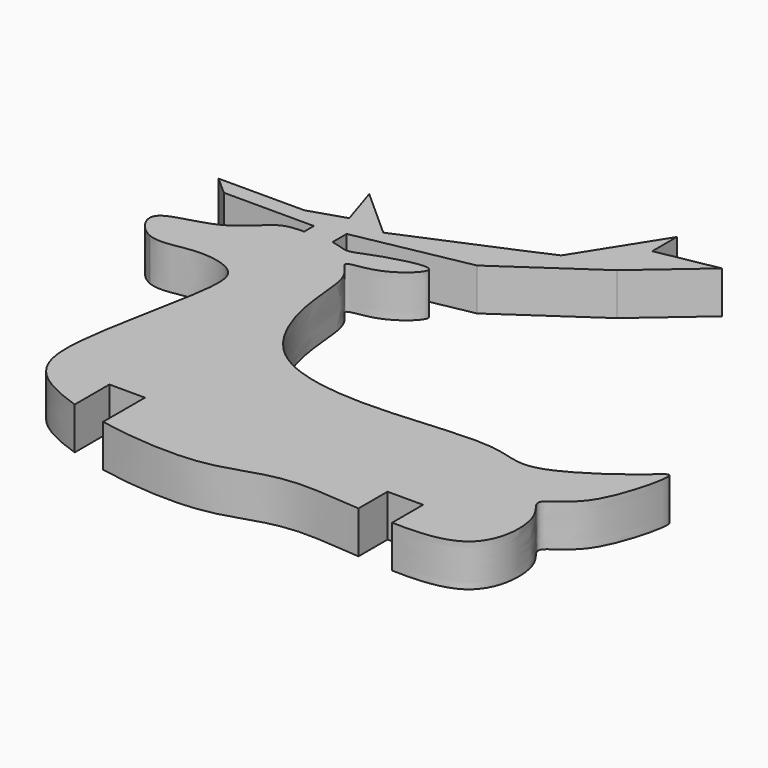
from build123d import *

# Parameters (mm, degrees)
F1_DEPTH = 5.08


with BuildPart() as f1:
    # F0 (on Top) → F1 (new body)
    with BuildSketch(Plane.XY):
        with BuildLine():
            add(Edge.make_bspline(
                [(-34.9565260112, 24.6980395168), (-36.3184421784, 25.2946421503), (-39.0858596516, 29.0367000859), (-30.4416842625, 29.6095288925), (-27.1838955094, 34.3831282751), (-25.1042351735, 34.3317026976), (-24.1073034704, 34.3767851591)],
                knots=[0, 0, 0, 0, 0.0252450946, 0.0577136403, 0.0879337607, 0.109153992, 0.109153992, 0.109153992, 0.109153992], degree=3))
            add(Edge.make_bspline(
                [(-18.9626812929, -6.585470436), (-20.7836392487, -6.0021480252), (-26.2542361607, -3.6182647016), (-27.6403976049, 3.3720647415), (-23.2527842916, 20.1045936237), (-24.347636729, 24.3087012232), (-29.8604613815, 25.4056291179), (-33.3712304464, 24.0035830358), (-34.9565260112, 24.6980395168)],
                knots=[0.811990939, 0.811990939, 0.811990939, 0.811990939, 0.8276490466, 0.8654279725, 0.9182676782, 0.9423786567, 0.9706142438, 1, 1, 1, 1], degree=3))
            Line((-18.9626812929, -6.585470436), (-18.9626812929, -1.3686448783))
            Line((-18.9626812929, -1.3686448783), (-14.678311535, -1.3686448783))
            Line((-14.678311535, -1.3686448783), (-14.678311535, -7.6762364836))
            add(Edge.make_bspline(
                [(15.078831465, -6.4400512963), (12.3248730206, -6.2042544015), (4.2059701157, -5.3988197752), (-0.3030927776, -9.1765432065), (-10.5908690132, -8.487764245), (-14.678311535, -7.6762364836)],
                knots=[0.7060938897, 0.7060938897, 0.7060938897, 0.7060938897, 0.7270238665, 0.7690905816, 0.8005024545, 0.8005024545, 0.8005024545, 0.8005024545], degree=3))
            Line((15.078831465, -6.4400512963), (15.078831465, -2.0703081973))
            Line((15.078831465, -2.0703081973), (19.3632012229, -2.0703081973))
            Line((19.3632012229, -2.0703081973), (19.3632012229, -6.7264847693))
            add(Edge.make_bspline(
                [(-20.69311589, 34.3767851591), (-19.8944697046, 34.2332916672), (-18.5204144791, 33.5025393751), (-16.3416883071, 34.7754890574), (-7.7060230741, 37.1777747467), (-13.1736566579, 31.8742939291), (-18.1253049752, 32.1183978408), (-14.8226908654, 29.7876143731), (-15.1307104031, 23.011945025), (-11.2143412199, 11.8324332314), (2.9482264108, 9.8046390998), (17.3915983635, 12.1673581995), (22.5454394796, 8.7738177738), (31.9182466628, 15.6774489792), (34.5341730796, 18.4071345063), (32.1206179642, 8.5222070955), (28.7997072673, 6.4342695481), (26.9018097864, 4.9095043094), (29.8148200259, 2.8228172307), (29.6950516226, -6.2723774479), (22.5577629034, -6.8387844426), (19.3632012229, -6.7264847693)],
                knots=[0.1328139998, 0.1328139998, 0.1328139998, 0.1328139998, 0.1513713652, 0.1729746484, 0.2039782617, 0.2309721734, 0.2556310269, 0.2740658828, 0.3072796564, 0.3488832295, 0.3958732794, 0.4442483176, 0.4742124417, 0.5169203399, 0.533357624, 0.5693983638, 0.5963922835, 0.6124135911, 0.6336014297, 0.6701776865, 0.6951745937, 0.6951745937, 0.6951745937, 0.6951745937], degree=3))
            add(Edge.make_bspline(
                [(-24.1073034704, 34.3767851591), (-22.9957504645, 34.427050935), (-21.7113625347, 34.5597344667), (-20.69311589, 34.3767851591)],
                knots=[0.109153992, 0.109153992, 0.109153992, 0.109153992, 0.1328139998, 0.1328139998, 0.1328139998, 0.1328139998], degree=3))
        make_face()
        with BuildLine():
            Line((-24.1073034704, 35.835648897), (-24.1073034704, 34.3767851591))
            add(Edge.make_bspline(
                [(-24.1073034704, 34.3767851591), (-22.9957504645, 34.427050935), (-21.7113625347, 34.5597344667), (-20.69311589, 34.3767851591)],
                knots=[0.109153992, 0.109153992, 0.109153992, 0.109153992, 0.1328139998, 0.1328139998, 0.1328139998, 0.1328139998], degree=3))
            Line((-20.69311589, 34.3767851591), (-20.69311589, 36.4975829459))
            Line((-20.69311589, 36.4975829459), (-24.1073034704, 35.835648897))
        make_face()
        Polygon((-34.9565260112, 35.835648897), (-24.1073034704, 35.835648897), (-20.69311589, 36.4975829459), (-7.1089123376, 39.1312539577), (3.7584491074, 46.6025657952), (11.2297600135, 53.0550628901), (3.9282515645, 51.696639508), (3.9282515645, 55.4010961205), (-2.2054633591, 45.6912778318), (-5.6703309239, 44.1583019264), (-18.1724019349, 38.8550646603), (-21.5716100879, 41.8924878163), (-24.1073034704, 44.1583019264), (-22.5044358461, 39.1493362049), (-26.8060080707, 37.772834301), (-37.1244479902, 37.772834301), align=None)
    extrude(amount=F1_DEPTH)


solid = f1.part
